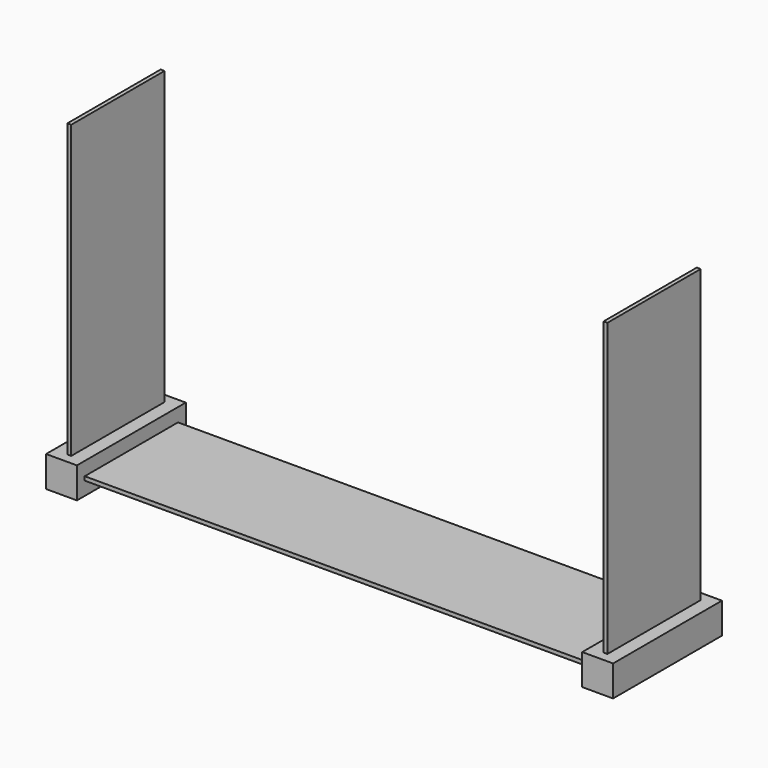
from build123d import *

# Parameters (mm, degrees)
F0_W     = 20.16
F0_H     = 20.16
F0_W_2   = 10
F0_H_2   = 10
F1_DEPTH = 88.9
F2_DEPTH = 50.8
F3_W     = 76.2
F3_H     = 2.54
F4_DEPTH = 330.2
F5_W     = 2.54
F5_H     = 76.2
F6_DEPTH = 190.5


with BuildPart() as f1:
    # F0 (on Front) → F1 (new body)
    with BuildSketch(Plane.XZ):
        with Locations((-204.3635635233, 0)):
            Rectangle(F0_W, F0_H)
        with Locations((-204.3635635233, 0)):
            Rectangle(F0_W_2, F0_H_2, mode=Mode.SUBTRACT)
        with Locations((-204.3635635233, 0)):
            Rectangle(F0_W_2, F0_H_2)
    extrude(amount=F1_DEPTH)


with BuildPart() as f1b:
    # F0 (on Front) → F1, piece 2 (new body)
    with BuildSketch(Plane.XZ):
        with Locations((145.9964364767, 0)):
            Rectangle(F0_W, F0_H)
        with Locations((145.9964364767, 0)):
            Rectangle(F0_W_2, F0_H_2, mode=Mode.SUBTRACT)
        with Locations((145.9964364767, 0)):
            Rectangle(F0_W_2, F0_H_2)
    extrude(amount=F1_DEPTH)


with BuildPart() as f2_tool:
    # F0 (on Front) → F2 (new body)
    with BuildSketch(Plane.XZ):
        with Locations((-204.3635635233, 0)):
            Rectangle(F0_W_2, F0_H_2)
        with Locations((145.9964364767, 0)):
            Rectangle(F0_W_2, F0_H_2)
    extrude(amount=F2_DEPTH)


with BuildPart() as f1_1:
    add(f1.part)

    # F2: cut by f2_tool
    add(f2_tool.part, mode=Mode.SUBTRACT)



with BuildPart() as f1b_1:
    add(f1b.part)

    # F2: cut by f2_tool
    add(f2_tool.part, mode=Mode.SUBTRACT)


with BuildPart() as f1_2:
    add(f1_1.part)

    add(f1b_1.part)  # F4 merges F1b
    # F3 (on face) → F4 (join, through all)
    with BuildSketch(Plane(origin=(135.9164364767, 0, 0), x_dir=(0, -1, 0), z_dir=(-1, 0, 0))):
        with Locations((44.45, 0)):
            Rectangle(F3_W, F3_H)
    extrude(amount=F4_DEPTH)

    # F5 (on face) → F6 (join)
    with BuildSketch(Plane.XY.offset(10.08)):
        with Locations((-204.3635635233, -44.45)):
            Rectangle(F5_W, F5_H)
        with Locations((145.9964364767, -44.45)):
            Rectangle(F5_W, F5_H)
    extrude(amount=F6_DEPTH)


solid = f1_2.part
